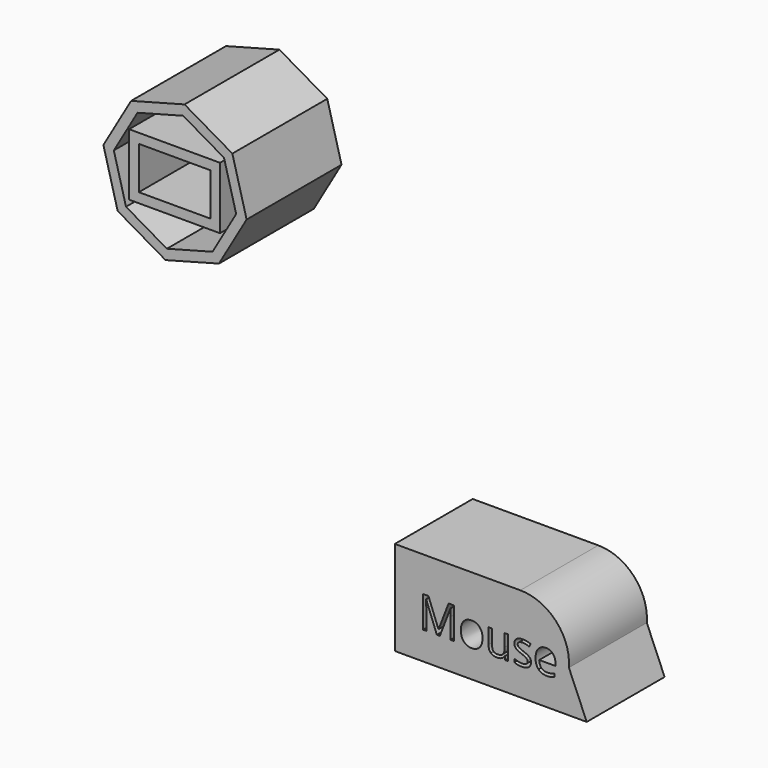
from build123d import *

# Parameters (mm, degrees)
F1_DEPTH = 25.4
F2_DEPTH = 15.47605
F3_W     = 18.6392664909
F3_H     = 11.1042335629
F4_DEPTH = 30.9521
F5_T     = -2.54


with BuildPart() as f1:
    # F0 (on Front) → F1 (new body)
    with BuildSketch(Plane.XZ):
        with BuildLine():
            Line((-3.773370779, -24.9902736396), (-36.5339256823, -24.9902736396))
            Line((-36.5339256823, -24.9902736396), (-36.5339256823, -37.2901419178))
            Line((-36.5339256823, -37.2901419178), (-36.5339256823, -49.590010196))
            Line((-36.5339256823, -49.590010196), (13.5391952785, -49.590010196))
            Line((13.5391952785, -49.590010196), (8.8910869166, -38.6397531151))
            ThreePointArc((8.8910869166, -38.6397531151), (5.5365268933, -29.052229571), (-3.773370779, -24.9902736396))
        make_face()
        with BuildLine():
            Line((-24.7953651081, -42.3037852307), (-25.5639865894, -42.3037852307))
            Line((-25.5639865894, -42.3037852307), (-28.347545692, -35.0306146721))
            Line((-28.347545692, -35.0306146721), (-28.3924418066, -35.0306146721))
            add(Edge.make_bspline(
                [(-28.3924418066, -35.0306146721), (-28.313424645, -35.8944159162), (-28.313424645, -37.0850608743)],
                knots=[0, 0, 0, 1, 1, 1], degree=2))
            Line((-28.313424645, -37.0850608743), (-28.313424645, -42.3037852307))
            Line((-28.313424645, -42.3037852307), (-29.1951843349, -42.3037852307))
            Line((-29.1951843349, -42.3037852307), (-29.1951843349, -34.0985713339))
            Line((-29.1951843349, -34.0985713339), (-27.758508669, -34.0985713339))
            Line((-27.758508669, -34.0985713339), (-25.1599215583, -40.8671095648))
            Line((-25.1599215583, -40.8671095648), (-25.1150254438, -40.8671095648))
            Line((-25.1150254438, -40.8671095648), (-22.4948881981, -34.0985713339))
            Line((-22.4948881981, -34.0985713339), (-21.0689875997, -34.0985713339))
            Line((-21.0689875997, -34.0985713339), (-21.0689875997, -42.3037852307))
            Line((-21.0689875997, -42.3037852307), (-22.0225810729, -42.3037852307))
            Line((-22.0225810729, -42.3037852307), (-22.0225810729, -37.0168187802))
            add(Edge.make_bspline(
                [(-22.0225810729, -37.0168187802), (-22.0225810729, -36.1081214215), (-21.9435639113, -35.0413897396)],
                knots=[0, 0, 0, 1, 1, 1], degree=2))
            Line((-21.9435639113, -35.0413897396), (-21.9884600258, -35.0413897396))
            Line((-21.9884600258, -35.0413897396), (-24.7953651081, -42.3037852307))
        make_face(mode=Mode.SUBTRACT)
        with BuildLine():
            add(Edge.make_bspline(
                [(-14.4108938105, -36.8991909601), (-13.6503536299, -37.7585025927), (-13.6503536299, -39.2221159274)],
                knots=[0, 0, 0, 1, 1, 1], degree=2))
            add(Edge.make_bspline(
                [(-13.6503536299, -39.2221159274), (-13.6503536299, -40.7270336874), (-14.4073021213, -41.5719785634)],
                knots=[0, 0, 0, 1, 1, 1], degree=2))
            add(Edge.make_bspline(
                [(-14.4073021213, -41.5719785634), (-15.1642506128, -42.4169234394), (-16.5003589821, -42.4169234394)],
                knots=[0, 0, 0, 1, 1, 1], degree=2))
            add(Edge.make_bspline(
                [(-16.5003589821, -42.4169234394), (-17.32644749, -42.4169234394), (-17.9657681613, -42.0290210096)],
                knots=[0, 0, 0, 1, 1, 1], degree=2))
            add(Edge.make_bspline(
                [(-17.9657681613, -42.0290210096), (-18.6050888326, -41.6411185798), (-18.9534826816, -40.9173932131)],
                knots=[0, 0, 0, 1, 1, 1], degree=2))
            add(Edge.make_bspline(
                [(-18.9534826816, -40.9173932131), (-19.3018765306, -40.1936678464), (-19.3018765306, -39.2221159274)],
                knots=[0, 0, 0, 1, 1, 1], degree=2))
            add(Edge.make_bspline(
                [(-19.3018765306, -39.2221159274), (-19.3018765306, -37.7189940119), (-18.5494176506, -36.8794366697)],
                knots=[0, 0, 0, 1, 1, 1], degree=2))
            add(Edge.make_bspline(
                [(-18.5494176506, -36.8794366697), (-17.7969587706, -36.0398793274), (-16.4608504013, -36.0398793274)],
                knots=[0, 0, 0, 1, 1, 1], degree=2))
            add(Edge.make_bspline(
                [(-16.4608504013, -36.0398793274), (-15.1714339911, -36.0398793274), (-14.4108938105, -36.8991909601)],
                knots=[0, 0, 0, 1, 1, 1], degree=2))
        make_face(mode=Mode.SUBTRACT)
        with BuildLine():
            Line((-12.0825813095, -36.1530175361), (-11.1397629037, -36.1530175361))
            Line((-11.1397629037, -36.1530175361), (-11.1397629037, -40.1433841981))
            add(Edge.make_bspline(
                [(-11.1397629037, -40.1433841981), (-11.1397629037, -40.8958430781), (-10.7976545108, -41.2657870621)],
                knots=[0, 0, 0, 1, 1, 1], degree=2))
            add(Edge.make_bspline(
                [(-10.7976545108, -41.2657870621), (-10.4555461178, -41.6357310461), (-9.7264332174, -41.6357310461)],
                knots=[0, 0, 0, 1, 1, 1], degree=2))
            add(Edge.make_bspline(
                [(-9.7264332174, -41.6357310461), (-8.7602688321, -41.6357310461), (-8.3148993756, -41.1086506612)],
                knots=[0, 0, 0, 1, 1, 1], degree=2))
            add(Edge.make_bspline(
                [(-8.3148993756, -41.1086506612), (-7.8695299192, -40.5815702762), (-7.8695299192, -39.3855377844)],
                knots=[0, 0, 0, 1, 1, 1], degree=2))
            Line((-7.8695299192, -39.3855377844), (-7.8695299192, -36.1530175361))
            Line((-7.8695299192, -36.1530175361), (-6.937486581, -36.1530175361))
            Line((-6.937486581, -36.1530175361), (-6.937486581, -42.3037852307))
            Line((-6.937486581, -42.3037852307), (-7.7061080622, -42.3037852307))
            Line((-7.7061080622, -42.3037852307), (-7.8407964059, -41.4794925674))
            Line((-7.8407964059, -41.4794925674), (-7.8910800542, -41.4794925674))
            add(Edge.make_bspline(
                [(-7.8910800542, -41.4794925674), (-8.1766193428, -41.9338412468), (-8.6848433596, -42.1753823431)],
                knots=[0, 0, 0, 1, 1, 1], degree=2))
            add(Edge.make_bspline(
                [(-8.6848433596, -42.1753823431), (-9.1930673764, -42.4169234394), (-9.8449589598, -42.4169234394)],
                knots=[0, 0, 0, 1, 1, 1], degree=2))
            add(Edge.make_bspline(
                [(-9.8449589598, -42.4169234394), (-10.9673618238, -42.4169234394), (-11.5249715666, -41.8835575984)],
                knots=[0, 0, 0, 1, 1, 1], degree=2))
            add(Edge.make_bspline(
                [(-11.5249715666, -41.8835575984), (-12.0825813095, -41.3501917575), (-12.0825813095, -40.1775052452)],
                knots=[0, 0, 0, 1, 1, 1], degree=2))
            Line((-12.0825813095, -40.1775052452), (-12.0825813095, -36.1530175361))
        make_face(mode=Mode.SUBTRACT)
        with BuildLine():
            add(Edge.make_bspline(
                [(-1.3793475985, -39.6100183572), (-0.9950368579, -40.0140833882), (-0.9950368579, -40.6264663908)],
                knots=[0, 0, 0, 1, 1, 1], degree=2))
            add(Edge.make_bspline(
                [(-0.9950368579, -40.6264663908), (-0.9950368579, -41.4848801012), (-1.6343575292, -41.9509017703)],
                knots=[0, 0, 0, 1, 1, 1], degree=2))
            add(Edge.make_bspline(
                [(-1.6343575292, -41.9509017703), (-2.2736782005, -42.4169234394), (-3.4302021116, -42.4169234394)],
                knots=[0, 0, 0, 1, 1, 1], degree=2))
            add(Edge.make_bspline(
                [(-3.4302021116, -42.4169234394), (-4.6531722722, -42.4169234394), (-5.3373890581, -42.0290210096)],
                knots=[0, 0, 0, 1, 1, 1], degree=2))
            Line((-5.3373890581, -42.0290210096), (-5.3373890581, -41.1652197655))
            add(Edge.make_bspline(
                [(-5.3373890581, -41.1652197655), (-4.8938154462, -41.3897003383), (-4.3864893517, -41.5181032259)],
                knots=[0, 0, 0, 1, 1, 1], degree=2))
            add(Edge.make_bspline(
                [(-4.3864893517, -41.5181032259), (-3.8791632572, -41.6465061136), (-3.406856132, -41.6465061136)],
                knots=[0, 0, 0, 1, 1, 1], degree=2))
            add(Edge.make_bspline(
                [(-3.406856132, -41.6465061136), (-2.6777432316, -41.6465061136), (-2.2853511903, -41.4139442402)],
                knots=[0, 0, 0, 1, 1, 1], degree=2))
            add(Edge.make_bspline(
                [(-2.2853511903, -41.4139442402), (-1.8929591491, -41.1813823667), (-1.8929591491, -40.7036877078)],
                knots=[0, 0, 0, 1, 1, 1], degree=2))
            add(Edge.make_bspline(
                [(-1.8929591491, -40.7036877078), (-1.8929591491, -40.3445187914), (-2.2036402618, -40.0895088607)],
                knots=[0, 0, 0, 1, 1, 1], degree=2))
            add(Edge.make_bspline(
                [(-2.2036402618, -40.0895088607), (-2.5143213746, -39.83449893), (-3.4194270441, -39.486105081)],
                knots=[0, 0, 0, 1, 1, 1], degree=2))
            add(Edge.make_bspline(
                [(-3.4194270441, -39.486105081), (-4.2778407545, -39.1664447453), (-4.6397034378, -38.9275974159)],
                knots=[0, 0, 0, 1, 1, 1], degree=2))
            add(Edge.make_bspline(
                [(-4.6397034378, -38.9275974159), (-5.0015661212, -38.6887500864), (-5.1784568125, -38.3861502743)],
                knots=[0, 0, 0, 1, 1, 1], degree=2))
            add(Edge.make_bspline(
                [(-5.1784568125, -38.3861502743), (-5.3553475039, -38.0835504621), (-5.3553475039, -37.6633228299)],
                knots=[0, 0, 0, 1, 1, 1], degree=2))
            add(Edge.make_bspline(
                [(-5.3553475039, -37.6633228299), (-5.3553475039, -36.9108639498), (-4.7429645013, -36.4753716386)],
                knots=[0, 0, 0, 1, 1, 1], degree=2))
            add(Edge.make_bspline(
                [(-4.7429645013, -36.4753716386), (-4.1305814987, -36.0398793274), (-3.0656456614, -36.0398793274)],
                knots=[0, 0, 0, 1, 1, 1], degree=2))
            add(Edge.make_bspline(
                [(-3.0656456614, -36.0398793274), (-2.0725436073, -36.0398793274), (-1.1225418232, -36.4439443584)],
                knots=[0, 0, 0, 1, 1, 1], degree=2))
            Line((-1.1225418232, -36.4439443584), (-1.454773071, -37.2017907722))
            add(Edge.make_bspline(
                [(-1.454773071, -37.2017907722), (-2.3796330309, -36.8210717207), (-3.1320919109, -36.8210717207)],
                knots=[0, 0, 0, 1, 1, 1], degree=2))
            add(Edge.make_bspline(
                [(-3.1320919109, -36.8210717207), (-3.7947585618, -36.8210717207), (-4.131479421, -37.02849177)],
                knots=[0, 0, 0, 1, 1, 1], degree=2))
            add(Edge.make_bspline(
                [(-4.131479421, -37.02849177), (-4.4682002802, -37.2359118193), (-4.4682002802, -37.6004682695)],
                knots=[0, 0, 0, 1, 1, 1], degree=2))
            add(Edge.make_bspline(
                [(-4.4682002802, -37.6004682695), (-4.4682002802, -37.8482948218), (-4.3415932371, -38.021593824)],
                knots=[0, 0, 0, 1, 1, 1], degree=2))
            add(Edge.make_bspline(
                [(-4.3415932371, -38.021593824), (-4.2149861941, -38.1948928262), (-3.9348344392, -38.3520292272)],
                knots=[0, 0, 0, 1, 1, 1], degree=2))
            add(Edge.make_bspline(
                [(-3.9348344392, -38.3520292272), (-3.6546826844, -38.5091656282), (-2.8573276898, -38.8072758288)],
                knots=[0, 0, 0, 1, 1, 1], degree=2))
            add(Edge.make_bspline(
                [(-2.8573276898, -38.8072758288), (-1.7636583391, -39.2059533261), (-1.3793475985, -39.6100183572)],
                knots=[0, 0, 0, 1, 1, 1], degree=2))
        make_face(mode=Mode.SUBTRACT)
        with BuildLine():
            add(Edge.make_bspline(
                [(4.1823830731, -42.3235395211), (3.7424011504, -42.4169234394), (3.1192430803, -42.4169234394)],
                knots=[0, 0, 0, 1, 1, 1], degree=2))
            add(Edge.make_bspline(
                [(3.1192430803, -42.4169234394), (1.7561970423, -42.4169234394), (0.9669233484, -41.5854473978)],
                knots=[0, 0, 0, 1, 1, 1], degree=2))
            add(Edge.make_bspline(
                [(0.9669233484, -41.5854473978), (0.1776496544, -40.7539713561), (0.1776496544, -39.279582954)],
                knots=[0, 0, 0, 1, 1, 1], degree=2))
            add(Edge.make_bspline(
                [(0.1776496544, -39.279582954), (0.1776496544, -37.7908277952), (0.910354244, -36.9153535613)],
                knots=[0, 0, 0, 1, 1, 1], degree=2))
            add(Edge.make_bspline(
                [(0.910354244, -36.9153535613), (1.6430588336, -36.0398793274), (2.8785999063, -36.0398793274)],
                knots=[0, 0, 0, 1, 1, 1], degree=2))
            add(Edge.make_bspline(
                [(2.8785999063, -36.0398793274), (4.0333279728, -36.0398793274), (4.7067696912, -36.800419508)],
                knots=[0, 0, 0, 1, 1, 1], degree=2))
            add(Edge.make_bspline(
                [(4.7067696912, -36.800419508), (5.3802114096, -37.5609596887), (5.3802114096, -38.8072758288)],
                knots=[0, 0, 0, 1, 1, 1], degree=2))
            Line((5.3802114096, -38.8072758288), (5.3802114096, -39.3963128519))
            Line((5.3802114096, -39.3963128519), (1.1438140397, -39.3963128519))
            add(Edge.make_bspline(
                [(1.1438140397, -39.3963128519), (1.172547553, -40.479207135), (1.6915466374, -41.040408567)],
                knots=[0, 0, 0, 1, 1, 1], degree=2))
            add(Edge.make_bspline(
                [(1.6915466374, -41.040408567), (2.2105457217, -41.601609999), (3.1533641274, -41.601609999)],
                knots=[0, 0, 0, 1, 1, 1], degree=2))
            add(Edge.make_bspline(
                [(3.1533641274, -41.601609999), (4.1464661815, -41.601609999), (5.1162222559, -41.1867699005)],
                knots=[0, 0, 0, 1, 1, 1], degree=2))
            Line((5.1162222559, -41.1867699005), (5.1162222559, -42.0182459421))
            add(Edge.make_bspline(
                [(5.1162222559, -42.0182459421), (4.6223649958, -42.2301556028), (4.1823830731, -42.3235395211)],
                knots=[0, 0, 0, 1, 1, 1], degree=2))
        make_face(mode=Mode.SUBTRACT)
    extrude(amount=F1_DEPTH)


with BuildPart() as f2:
    # F0 (on Front) → F2 (new body, symmetric)
    with BuildSketch(Plane.XZ):
        Polygon((-90.3657683966, 17.8500145408), (-83.137943423, 30.3344473508), (-86.8549264702, 44.2731185021), (-99.3393592802, 51.5009434757), (-113.2780304315, 47.7839604286), (-120.5058554051, 35.2995276186), (-116.7888723579, 21.3608564673), (-104.3044395479, 14.1330314937), align=None)
    extrude(amount=F2_DEPTH, both=True)

    # F3 (on face) → F4 (cut, through all)
    with BuildSketch(Plane.XZ.offset(15.47605)):
        with Locations((-101.9386947155, 33.015280962)):
            Rectangle(F3_W, F3_H)
    extrude(amount=-F4_DEPTH, mode=Mode.SUBTRACT)

    # F5
    f5_openings = [f2.faces().sort_by_distance(p)[0] for p in [
        (-97.471269, -15.47605, 16.502142),
    ]]
    offset(amount=F5_T, openings=f5_openings, kind=Kind.INTERSECTION)


solid = Compound([f1.part, f2.part])
